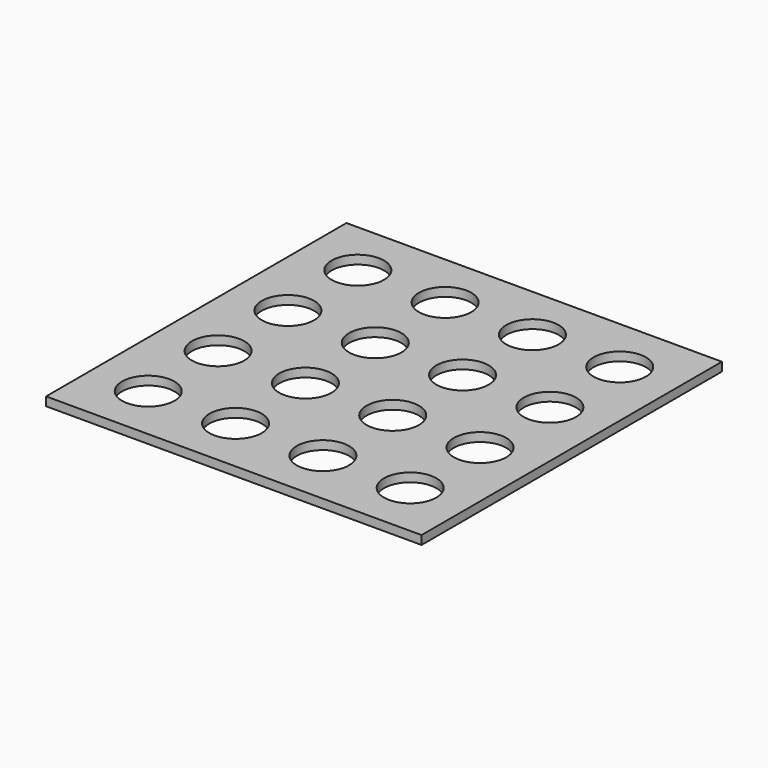
from build123d import *

# Parameters (mm, degrees)
F0_W     = 273.05
F0_H     = 273.05
F0_R     = 19.05
F1_DEPTH = 6.35


with BuildPart() as f1:
    # F0 (on Top) → F1 (new body)
    with BuildSketch(Plane.XY):
        Rectangle(F0_W, F0_H)
        with Locations((-95.25, -95.25)):
            Circle(F0_R, mode=Mode.SUBTRACT)
        with Locations((-31.75, -95.25)):
            Circle(F0_R, mode=Mode.SUBTRACT)
        with Locations((-95.25, -31.75)):
            Circle(F0_R, mode=Mode.SUBTRACT)
        with Locations((-31.75, -31.75)):
            Circle(F0_R, mode=Mode.SUBTRACT)
        with Locations((31.75, -95.25)):
            Circle(F0_R, mode=Mode.SUBTRACT)
        with Locations((95.25, -95.25)):
            Circle(F0_R, mode=Mode.SUBTRACT)
        with Locations((31.75, -31.75)):
            Circle(F0_R, mode=Mode.SUBTRACT)
        with Locations((95.25, -31.75)):
            Circle(F0_R, mode=Mode.SUBTRACT)
        with Locations((-95.25, 31.75)):
            Circle(F0_R, mode=Mode.SUBTRACT)
        with Locations((-31.75, 31.75)):
            Circle(F0_R, mode=Mode.SUBTRACT)
        with Locations((-95.25, 95.25)):
            Circle(F0_R, mode=Mode.SUBTRACT)
        with Locations((-31.75, 95.25)):
            Circle(F0_R, mode=Mode.SUBTRACT)
        with Locations((31.75, 31.75)):
            Circle(F0_R, mode=Mode.SUBTRACT)
        with Locations((95.25, 31.75)):
            Circle(F0_R, mode=Mode.SUBTRACT)
        with Locations((31.75, 95.25)):
            Circle(F0_R, mode=Mode.SUBTRACT)
        with Locations((95.25, 95.25)):
            Circle(F0_R, mode=Mode.SUBTRACT)
    extrude(amount=F1_DEPTH)


solid = f1.part
